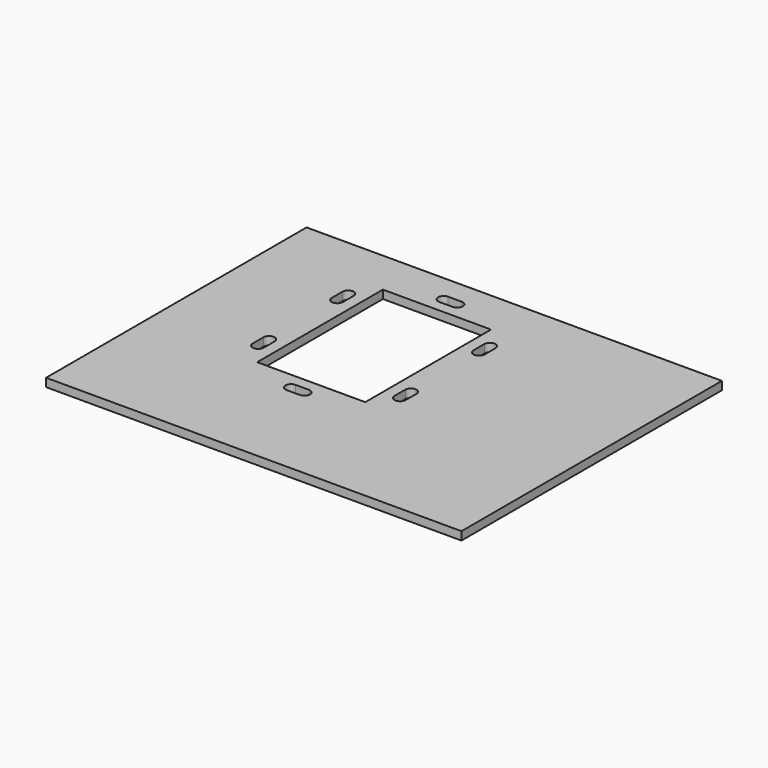
from build123d import *

# Parameters (mm, degrees)
SKETCH_W        = 185
SKETCH_H        = 145
PAD_DEPTH       = 3.7
SKETCH001_W     = 48.165349
SKETCH001_H     = 70
POCKET_DEPTH    = 5
POCKET001_DEPTH = 5


with BuildPart() as part:
    # Sketch → Pad (new body)
    with BuildSketch(Plane.XY):
        Rectangle(SKETCH_W, SKETCH_H)
    extrude(amount=PAD_DEPTH)

    # Sketch001 (on Face6 of Pad) → Pocket (cut)
    with BuildSketch(Plane.XY.offset(3.7)):
        with Locations((-18.417326, 17.5)):
            Rectangle(SKETCH001_W, SKETCH001_H)
    extrude(amount=-POCKET_DEPTH, mode=Mode.SUBTRACT)

    # Sketch003 (on Face5 of Pocket) → Pocket001 (cut)
    with BuildSketch(Plane.XY.offset(3.7)):
        with BuildLine():
            ThreePointArc((-21.417326, 62.5), (-23.917326, 60), (-21.417326, 57.5))
            Line((-21.417326, 57.5), (-15.417326, 57.5))
            ThreePointArc((-15.417326, 57.5), (-12.917326, 60), (-15.417326, 62.5))
            Line((-21.417326, 62.5), (-15.417326, 62.5))
        make_face()
        with BuildLine():
            Line((-21.416062, -22.5), (-15.418589, -22.5))
            ThreePointArc((-15.418589, -27.5), (-12.918589, -25), (-15.418589, -22.5))
            Line((-21.416062, -27.5), (-15.418589, -27.5))
            ThreePointArc((-21.416062, -22.5), (-23.916062, -25), (-21.416062, -27.5))
        make_face()
        with BuildLine():
            ThreePointArc((-47.5, 42.5), (-50, 45), (-52.5, 42.5))
            Line((-52.5, 42.5), (-52.5, 36.5))
            ThreePointArc((-52.5, 36.5), (-50, 34), (-47.5, 36.5))
            Line((-47.5, 42.5), (-47.5, 36.5))
        make_face()
        with BuildLine():
            ThreePointArc((15.665349, 42.5), (13.165349, 45), (10.665349, 42.5))
            Line((10.665349, 42.5), (10.665349, 36.5))
            ThreePointArc((10.665349, 36.5), (13.165349, 34), (15.665349, 36.5))
            Line((15.665349, 42.5), (15.665349, 36.5))
        make_face()
        with BuildLine():
            ThreePointArc((-47.5, -1.5), (-50, 1), (-52.5, -1.5))
            Line((-52.5, -1.5), (-52.5, -7.5))
            ThreePointArc((-52.5, -7.5), (-50, -10), (-47.5, -7.5))
            Line((-47.5, -1.5), (-47.5, -7.5))
        make_face()
        with BuildLine():
            ThreePointArc((15.665349, -1.5), (13.165349, 1), (10.665349, -1.5))
            Line((10.665349, -1.5), (10.665349, -7.5))
            ThreePointArc((10.665349, -7.5), (13.165349, -10), (15.665349, -7.5))
            Line((15.665349, -1.5), (15.665349, -7.5))
        make_face()
    extrude(amount=-POCKET001_DEPTH, mode=Mode.SUBTRACT)


solid = part.part
